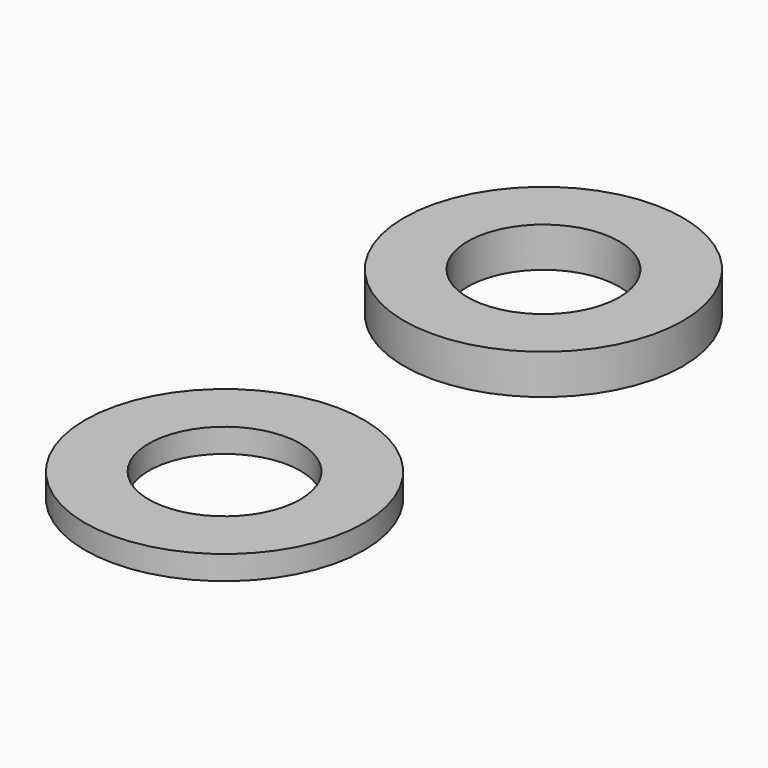
from build123d import *

# Parameters (mm, degrees)
F0_R     = 17.5
F0_R_2   = 9.5
F1_DEPTH = 3
F3_DEPTH = 2


with BuildPart() as f1:
    # F0 (on Top) → F1 (new body)
    with BuildSketch(Plane.XY):
        Circle(F0_R)
        Circle(F0_R_2, mode=Mode.SUBTRACT)
    extrude(amount=F1_DEPTH)


with BuildPart() as f2_1:
    # F2: copy of F1
    add(f1.part.moved(Location((0, 50, 0))))

    # F3 (add): a face of the model
    f3_faces = [f2_1.faces().sort_by_distance(p)[0] for p in [
        (-17.0050252532, 50, 3),
    ]]
    extrude(f3_faces, amount=F3_DEPTH)


solid = Compound([f1.part, f2_1.part])
